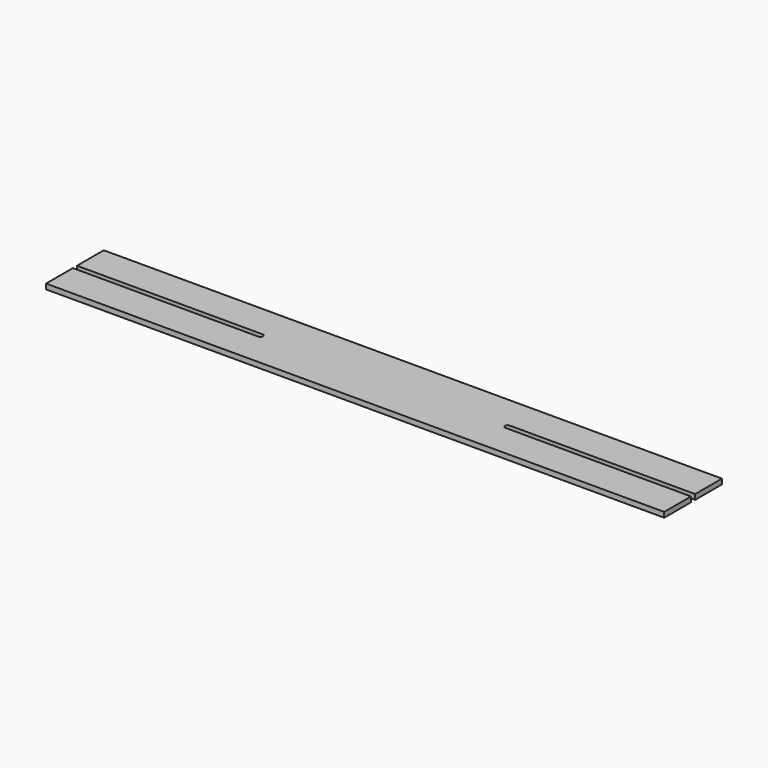
from build123d import *

# Parameters (mm, degrees)
F0_W     = 914.4
F0_H     = 165.1
F1_DEPTH = 25.4


with BuildPart() as f1:
    # F0 (on Top) → F1 (new body)
    with BuildSketch(Plane.XY):
        with Locations((-1066.8, 95.25)):
            Rectangle(F0_W, F0_H)
        with BuildLine():
            Line((1524, 177.8), (-609.6, 177.8))
            Line((-609.6, 177.8), (-609.6, 12.7))
            ThreePointArc((-609.6, 12.7), (-600.619744, 8.980256), (-596.9, 0))
            Line((-596.9, 0), (596.9, 0))
            ThreePointArc((596.9, 0), (600.619744, 8.980256), (609.6, 12.7))
            Line((609.6, 12.7), (1524, 12.7))
            Line((1524, 12.7), (1524, 177.8))
        make_face()
        with BuildLine():
            Line((596.9, 0), (-596.9, 0))
            ThreePointArc((-596.9, 0), (-600.619744, -8.980256), (-609.6, -12.7))
            Line((-609.6, -12.7), (-609.6, -177.8))
            Line((-609.6, -177.8), (1524, -177.8))
            Line((1524, -177.8), (1524, -12.7))
            Line((1524, -12.7), (609.6, -12.7))
            ThreePointArc((609.6, -12.7), (600.619744, -8.980256), (596.9, 0))
        make_face()
        with Locations((-1066.8, -95.25)):
            Rectangle(F0_W, F0_H)
    extrude(amount=F1_DEPTH)


solid = f1.part
